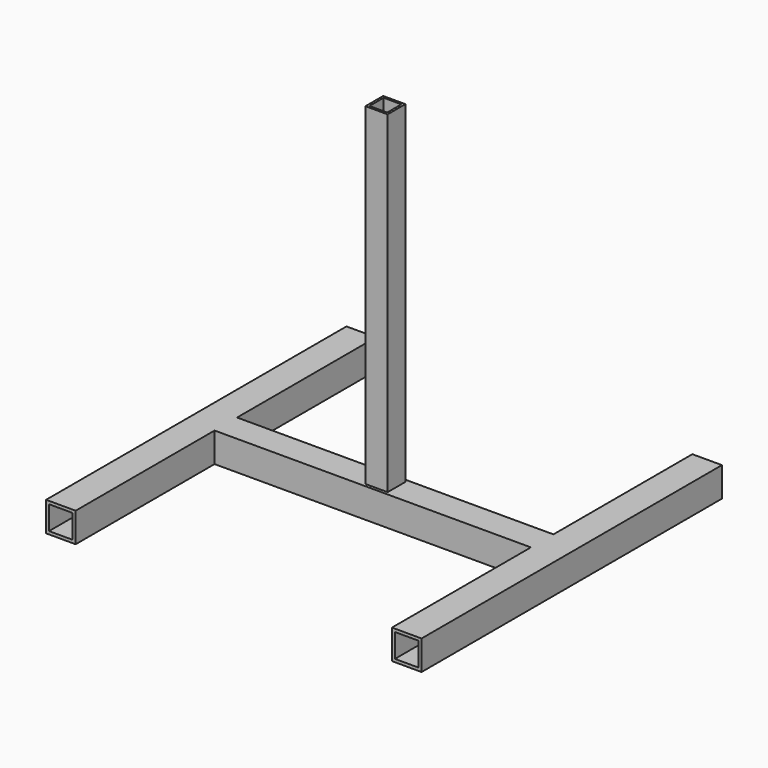
from build123d import *

# Parameters (mm, degrees)
F0_W     = 40
F0_H     = 40
F0_W_2   = 32
F0_H_2   = 32
F1_DEPTH = 508
F2_W     = 38.1
F2_H     = 40
F2_W_2   = 25.4
F2_H_2   = 27.3
F3_DEPTH = 431.8
F4_W     = 30
F4_H     = 30
F4_W_2   = 24
F4_H_2   = 24
F5_DEPTH = 450


with BuildPart() as f1:
    # F0 (on Front) → F1 (new body)
    with BuildSketch(Plane.XZ):
        with Locations((-234, 20)):
            Rectangle(F0_W, F0_H)
        with Locations((-234, 20)):
            Rectangle(F0_W_2, F0_H_2, mode=Mode.SUBTRACT)
    extrude(amount=-F1_DEPTH)



with BuildPart() as f1b:
    # F0 (on Front) → F1, piece 2 (new body)
    with BuildSketch(Plane.XZ):
        with Locations((234, 20)):
            Rectangle(F0_W, F0_H)
        with Locations((234, 20)):
            Rectangle(F0_W_2, F0_H_2, mode=Mode.SUBTRACT)
    extrude(amount=-F1_DEPTH)


with BuildPart() as f1_1:
    add(f1.part)

    add(f1b.part)  # F3 merges F1b
    # F2 (on face) → F3 (join)
    with BuildSketch(Plane.YZ.offset(-214)):
        with Locations((254, 20)):
            Rectangle(F2_W, F2_H)
        with Locations((254, 20)):
            Rectangle(F2_W_2, F2_H_2, mode=Mode.SUBTRACT)
    extrude(amount=F3_DEPTH)

    # F4 (on face) → F5 (join)
    with BuildSketch(Plane.XY.offset(40)):
        with Locations((1.9, 254)):
            Rectangle(F4_W, F4_H)
        with Locations((1.9, 254)):
            Rectangle(F4_W_2, F4_H_2, mode=Mode.SUBTRACT)
    extrude(amount=F5_DEPTH)


solid = f1_1.part
